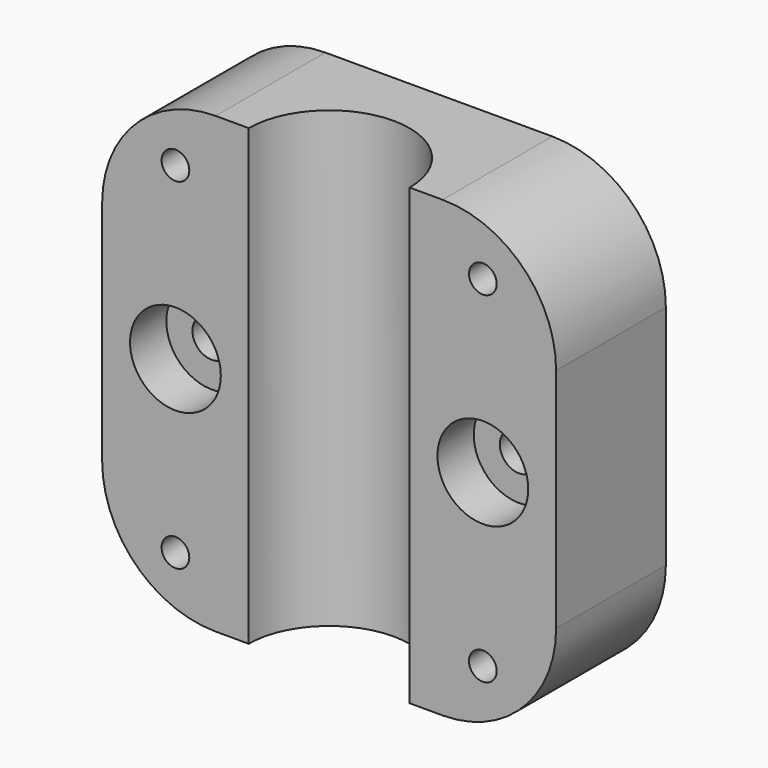
from build123d import *

# Parameters (mm, degrees)
F0_W      = 50.8
F0_H      = 50.8
F1_DEPTH  = 50.8
F2_R      = 9
F3_DEPTH  = 407.416
F4_W      = 60.1204171121
F4_H      = 25.4
F5_DEPTH  = 338.582
F6_R      = 5.08
F7_DEPTH  = 5.08
F8_R      = 2.159
F9_DEPTH  = 25.4
F10_R     = 1.5494
F11_DEPTH = 25.4
F12_R     = 1.5494
F12_R_2   = 2.159
F13_DEPTH = 25.4
F14_R     = 5.08
F15_DEPTH = 5.08
F19_DEPTH = 72.39
F22_R     = 12.7


with BuildPart() as f1:
    # F0 (on Top) → F1 (new body)
    with BuildSketch(Plane.XY):
        Rectangle(F0_W, F0_H)
    extrude(amount=F1_DEPTH)

    # F2 (on face) → F3 (cut)
    with BuildSketch(Plane(origin=(0, 0, 0), x_dir=(1, 0, 0), z_dir=(0, 0, -1))):
        Circle(F2_R)
    extrude(amount=-F3_DEPTH, mode=Mode.SUBTRACT)

    # F4 (on face) → F5 (cut)
    with BuildSketch(Plane(origin=(0, 0, 0), x_dir=(1, 0, 0), z_dir=(0, 0, -1))):
        with Locations((4.6602085561, 12.7)):
            Rectangle(F4_W, F4_H)
    extrude(amount=-F5_DEPTH, mode=Mode.SUBTRACT)

    # F6 (on face) → F7 (cut)
    with BuildSketch(Plane.XZ):
        with Locations((-17.2, 25.4)):
            Circle(F6_R)
    extrude(amount=-F7_DEPTH, mode=Mode.SUBTRACT)

    # F8 (on face) → F9 (cut)
    with BuildSketch(Plane.XZ.offset(-5.08)):
        with Locations((-17.2, 25.4)):
            Circle(F8_R)
    extrude(amount=-F9_DEPTH, mode=Mode.SUBTRACT)

    # F10 (on face) → F11 (cut)
    with BuildSketch(Plane.XZ):
        with Locations((-17.2, 44.4713309407)):
            Circle(F10_R)
    extrude(amount=-F11_DEPTH, mode=Mode.SUBTRACT)

    # F12 (on face) → F13 (cut)
    with BuildSketch(Plane.XZ):
        with Locations((17.2, 44.4713309407)):
            Circle(F12_R)
        with Locations((17.2, 25.4)):
            Circle(F12_R_2)
    extrude(amount=-F13_DEPTH, mode=Mode.SUBTRACT)

    # F14 (on face) → F15 (cut)
    with BuildSketch(Plane.XZ):
        with Locations((17.2, 25.4)):
            Circle(F14_R)
    extrude(amount=-F15_DEPTH, mode=Mode.SUBTRACT)

    # F17: F1 across plane


with BuildPart() as f1_1:
    add(f1.part)
    add(f1.part.mirror(Plane(origin=(0, 13.6714489466, 25.4), x_dir=(1, 0, 0), z_dir=(0, 0, 1))), mode=Mode.INTERSECT)

    # F18 (on face) → F19 (cut)
    with BuildSketch(Plane(origin=(0, 0, 0), x_dir=(1, 0, 0), z_dir=(0, 0, -1))):
        Polygon((37.3146161437, -15.35), (0, -15.35), (-44.7141490877, -15.35), (-42.6479764283, -31.9298505783), (43.3826521039, -33.9571945369), align=None)
    extrude(amount=-F19_DEPTH, mode=Mode.SUBTRACT)

    # F22
    f22_edges = [f1_1.edges().sort_by_distance(p)[0] for p in [
        (25.4, 7.675, 50.8),
        (25.4, 7.675, 0),
        (-25.4, 7.675, 50.8),
        (-25.4, 7.675, 0),
    ]]
    fillet(f22_edges, radius=F22_R)


solid = f1_1.part
